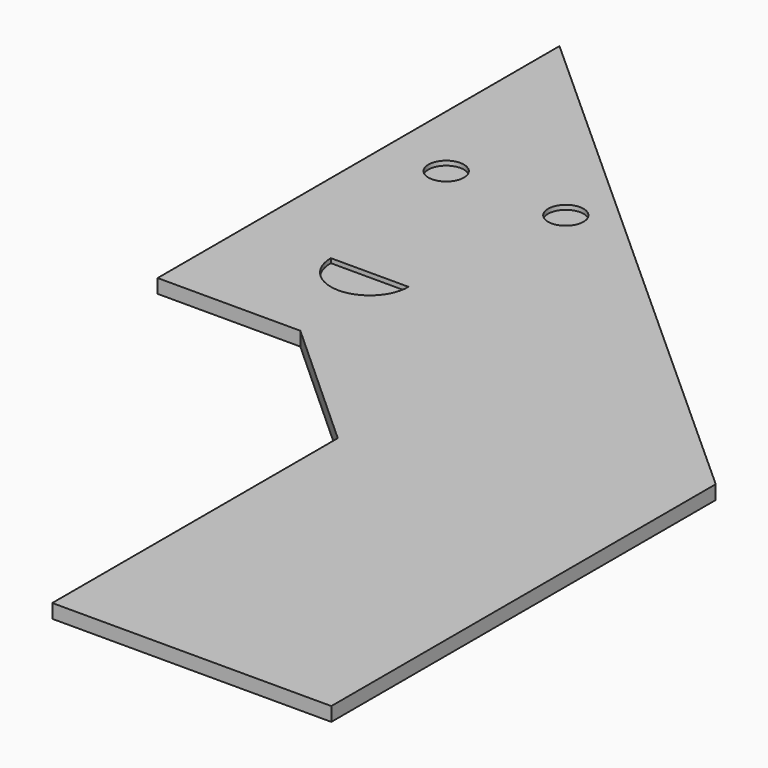
from build123d import *

# Parameters (mm, degrees)
F1_DEPTH = 2.5
F3_R     = 3.175
F4_DEPTH = 0.79375


with BuildPart() as f1:
    # F0 (on Top) → F1 (new body)
    with BuildSketch(Plane.XY):
        Polygon((0, 90), (0, 0), (25.572903, 0), (50, -22.149762), (50, -86.09388), (100, -86.09388), (100, 0), align=None)
    extrude(amount=F1_DEPTH)

    # F3 (on face) → F4 (cut)
    with BuildSketch(Plane.XY.offset(2.5)):
        with BuildLine():
            Line((29.080364, 19.845134), (15.167672, 19.845134))
            ThreePointArc((15.167672, 19.845134), (22.124018, 12.888788), (29.080364, 19.845134))
        make_face()
        with Locations((11.280774, 50.523829)):
            Circle(F3_R)
        with Locations((32.720824, 50.523829)):
            Circle(F3_R)
    extrude(amount=-F4_DEPTH, mode=Mode.SUBTRACT)


solid = f1.part
